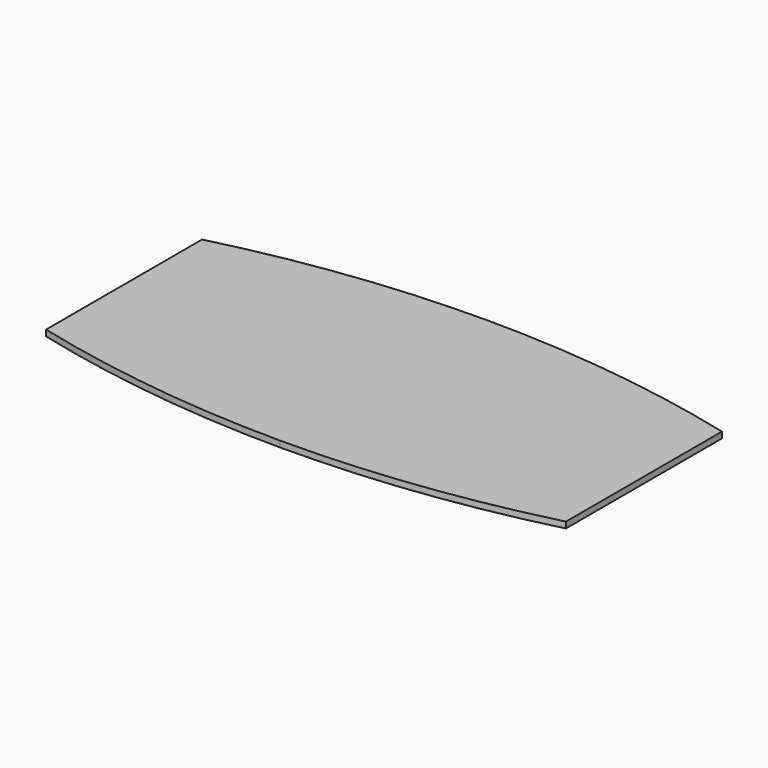
from build123d import *

# Parameters (mm, degrees)
F1_DEPTH = 28.575


with BuildPart() as f1:
    # F0 (on Top) → F1 (new body)
    with BuildSketch(Plane.XY):
        with BuildLine():
            Line((-1219.2, 457.2), (0, 457.2))
            Line((0, 457.2), (0, 609.6))
            ThreePointArc((0, 609.6), (-614.34404, 571.352323), (-1219.2, 457.2))
        make_face()
        with BuildLine():
            Line((0, 457.2), (1219.2, 457.2))
            ThreePointArc((1219.2, 457.2), (614.34404, 571.352323), (0, 609.6))
            Line((0, 609.6), (0, 457.2))
        make_face()
        Polygon((0, 0), (0, 457.2), (-1219.2, 457.2), (-1219.2, -457.2), (0, -457.2), align=None)
        Polygon((1219.2, -457.2), (1219.2, 457.2), (0, 457.2), (0, 0), (0, -457.2), align=None)
        with BuildLine():
            Line((0, -609.6), (0, -457.2))
            Line((0, -457.2), (-1219.2, -457.2))
            ThreePointArc((-1219.2, -457.2), (-614.34404, -571.352323), (0, -609.6))
        make_face()
        with BuildLine():
            ThreePointArc((0, -609.6), (614.34404, -571.352323), (1219.2, -457.2))
            Line((1219.2, -457.2), (0, -457.2))
            Line((0, -457.2), (0, -609.6))
        make_face()
    extrude(amount=F1_DEPTH)


solid = f1.part
